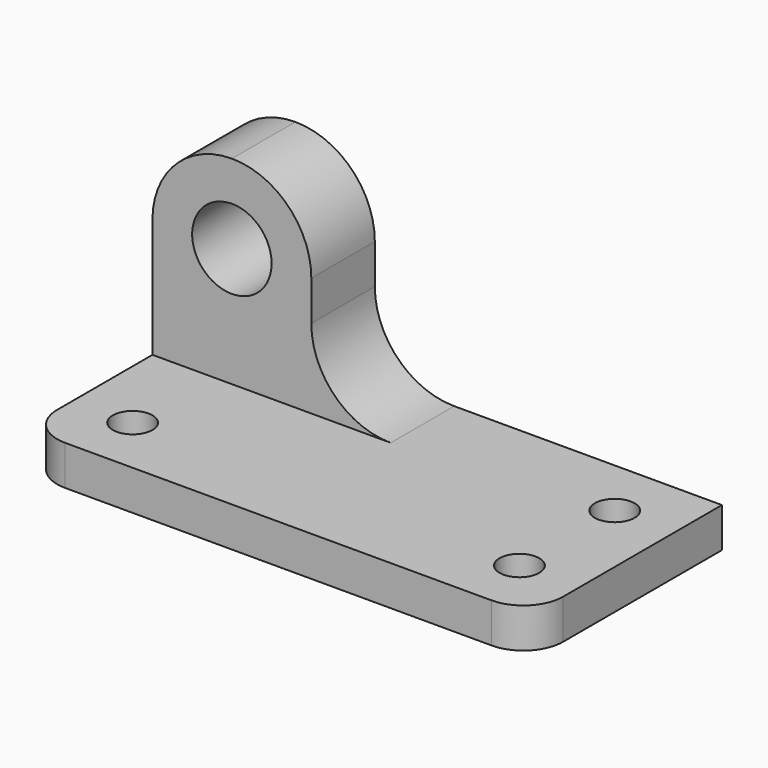
from build123d import *

# Parameters (mm, degrees)
F1_DEPTH  = 38.1
F2_W      = 25.4
F2_H      = 25.4
F3_DEPTH  = 31.75
F4_W      = 12.7
F4_H      = 12.7
F5_DEPTH  = 12.7
F7_DEPTH  = 25.4
F9_DEPTH  = 25.4
F10_R     = 6.35
F11_DEPTH = 25.4
F12_R     = 3.175
F13_DEPTH = 25.4
F15_DEPTH = 25.4


with BuildPart() as f1:
    # F0 (on Front) → F1 (new body)
    with BuildSketch(Plane.XZ):
        Polygon((-80.9037027093, 0), (0, 0), (0, 6.35), (-55.5037027093, 6.35), (-55.5037027093, 38.1), (-80.9037027093, 38.1), align=None)
    extrude(amount=F1_DEPTH)

    # F2 (on face) → F3 (cut)
    with BuildSketch(Plane.XY.offset(38.1)):
        with Locations((-68.2037027093, -25.4)):
            Rectangle(F2_W, F2_H)
    extrude(amount=-F3_DEPTH, mode=Mode.SUBTRACT)

    # F4 (on face) → F5 (join)
    with BuildSketch(Plane.XY.offset(6.35)):
        with Locations((-49.1537027093, -6.35)):
            Rectangle(F4_W, F4_H)
    extrude(amount=F5_DEPTH)

    # F6 (on face) → F7 (cut)
    with BuildSketch(Plane(origin=(0, 0, 0), x_dir=(-1, 0, 0), z_dir=(0, 1, 0))):
        with BuildLine():
            ThreePointArc((42.8037027093, 6.35), (51.7839588303, 10.0697438789), (55.5037027093, 19.05))
            Line((55.5037027093, 19.05), (42.8037027093, 19.05))
            Line((42.8037027093, 19.05), (42.8037027093, 6.35))
        make_face()
    extrude(amount=-F7_DEPTH, mode=Mode.SUBTRACT)

    # F8 (on face) → F9 (cut)
    with BuildSketch(Plane.XZ.offset(12.7)):
        with BuildLine():
            ThreePointArc((-80.9037027093, 25.4), (-77.1839588303, 34.3802561211), (-68.2037027093, 38.1))
            Line((-68.2037027093, 38.1), (-80.9037027093, 38.1))
            Line((-80.9037027093, 38.1), (-80.9037027093, 25.4))
        make_face()
        with BuildLine():
            ThreePointArc((-68.2037027093, 38.1), (-59.2234465882, 34.3802561211), (-55.5037027093, 25.4))
            Line((-55.5037027093, 25.4), (-55.5037027093, 38.1))
            Line((-55.5037027093, 38.1), (-68.2037027093, 38.1))
        make_face()
    extrude(amount=-F9_DEPTH, mode=Mode.SUBTRACT)

    # F10 (on face) → F11 (cut)
    with BuildSketch(Plane.XZ.offset(12.7)):
        with Locations((-68.2037027093, 25.4)):
            Circle(F10_R)
    extrude(amount=-F11_DEPTH, mode=Mode.SUBTRACT)

    # F12 (on face) → F13 (cut)
    with BuildSketch(Plane.XY.offset(6.35)):
        with Locations((-9.525, -9.525)):
            Circle(F12_R)
        with Locations((-9.525, -28.575)):
            Circle(F12_R)
        with Locations((-71.3787027093, -28.575)):
            Circle(F12_R)
    extrude(amount=-F13_DEPTH, mode=Mode.SUBTRACT)

    # F14 (on face) → F15 (cut)
    with BuildSketch(Plane.XY.offset(6.35)):
        with BuildLine():
            Line((-80.9037027093, -38.1), (-74.5537027093, -38.1))
            ThreePointArc((-74.5537027093, -38.1), (-79.0438307698, -36.2401280605), (-80.9037027093, -31.75))
            Line((-80.9037027093, -31.75), (-80.9037027093, -38.1))
        make_face()
        with BuildLine():
            ThreePointArc((0, -31.75), (-1.8598719244, -36.2401280455), (-6.3499999575, -38.1))
            Line((-6.3499999575, -38.1), (0, -38.1))
            Line((0, -38.1), (0, -31.75))
        make_face()
    extrude(amount=-F15_DEPTH, mode=Mode.SUBTRACT)


solid = f1.part
